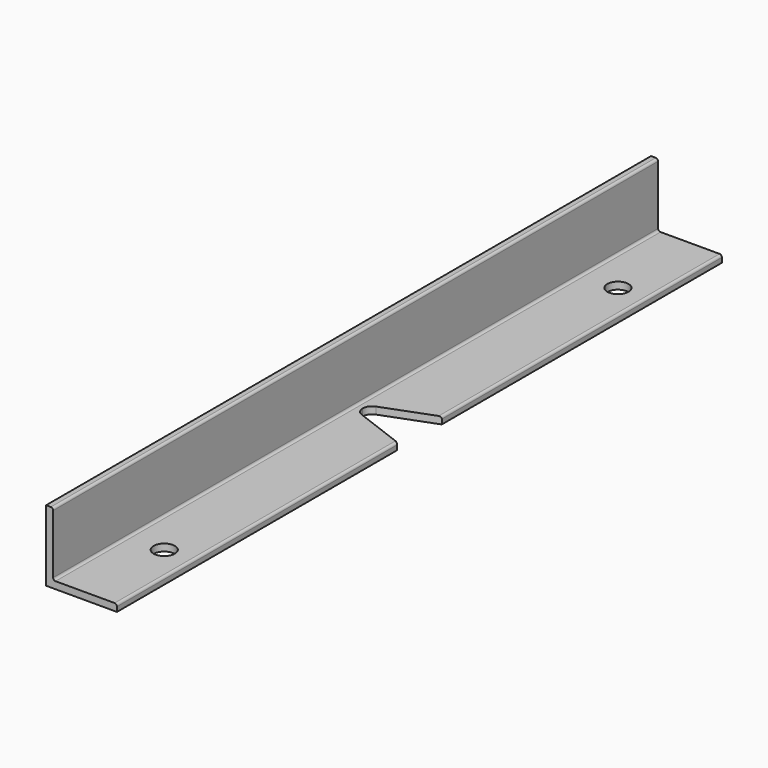
from build123d import *

# Parameters (mm, degrees)
F1_DEPTH = 320
F3_DEPTH = 30
F4_D     = 9


with BuildPart() as f1:
    # F0 (on Front) → F1 (new body)
    with BuildSketch(Plane.XZ):
        with BuildLine():
            Line((0, 30), (0, 0))
            Line((0, 0), (30, 0))
            Line((30, 0), (30, 2))
            ThreePointArc((30, 2), (29.7071067812, 2.7071067812), (29, 3))
            Line((29, 3), (4, 3))
            ThreePointArc((4, 3), (3.2928932188, 3.2928932188), (3, 4))
            Line((3, 4), (3, 29))
            ThreePointArc((3, 29), (2.7071067812, 29.7071067812), (2, 30))
            Line((2, 30), (0, 30))
        make_face()
    extrude(amount=F1_DEPTH)

    # F2 (on Top) → F3 (cut, through all)
    with BuildSketch(Plane.XY):
        with BuildLine():
            Line((30, -148.180951785), (8.5882981113, -156.257394253))
            ThreePointArc((8.5882981113, -156.257394253), (6.7101058106, -157.7247865545), (6, -160))
            ThreePointArc((6, -160), (6.7101058106, -162.2752134455), (8.5882981113, -163.742605747))
            Line((8.5882981113, -163.742605747), (30, -171.819048215))
            Line((30, -171.819048215), (30, -160))
            Line((30, -160), (30, -148.180951785))
        make_face()
    extrude(amount=F3_DEPTH, mode=Mode.SUBTRACT)

    # F4 (through all)
    with Locations(Plane(origin=(0, 0, 0), x_dir=(1, 0, 0), z_dir=(0, 0, -1))):
        with Locations((18, 40), (18, 280)):
            Hole(F4_D / 2)


solid = f1.part
